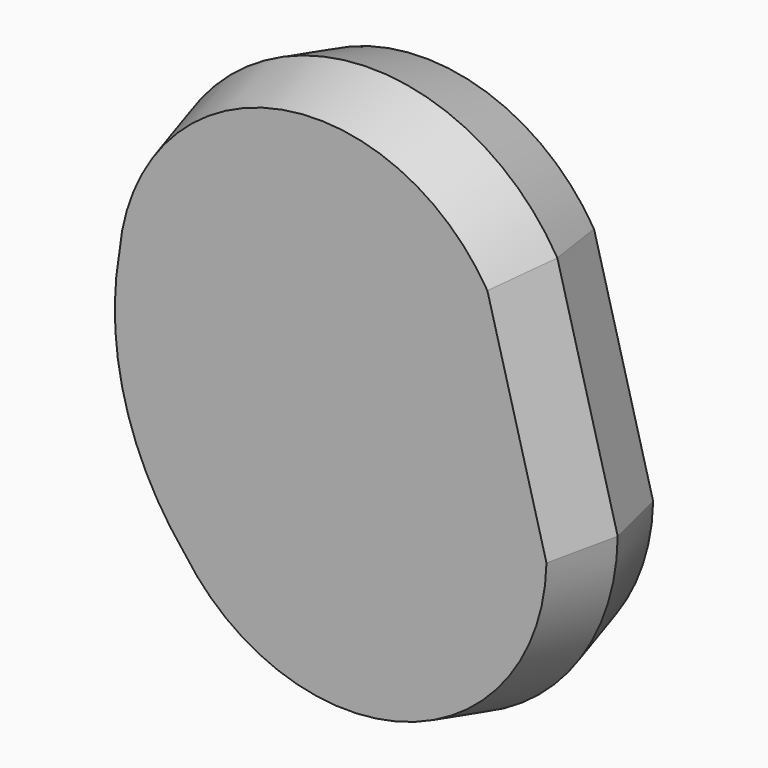
from build123d import *

# Parameters (mm, degrees)
F1_DEPTH = 4
F1_TAPER = 15


with BuildPart() as f1:
    # F0 (on Front) → F1 (new body, symmetric)
    with BuildSketch(Plane.XZ):
        with BuildLine():
            ThreePointArc((86.7407649822, -6.1106237106), (82.5, 0), (83.1172983508, 7.4123378574))
            Line((83.1172983508, 7.4123378574), (95.1771540786, 10.6437664606))
            ThreePointArc((95.1771540786, 10.6437664606), (81.1272632347, 16.7142332691), (71.0371981223, 5.2059499033))
            ThreePointArc((71.0371981223, 5.2059499033), (71.4025042649, -2.9735650202), (75.175897327, -10.2398858059))
            ThreePointArc((75.175897327, -10.2398858059), (89.6682917231, -15.1613189985), (98.8006207101, -2.8791951075))
            Line((98.8006207101, -2.8791951075), (86.7407649822, -6.1106237106))
        make_face()
        with BuildLine():
            Line((95.1771540786, 10.6437664606), (83.1172983508, 7.4123378574))
            ThreePointArc((83.1172983508, 7.4123378574), (82.5, 0), (86.7407649822, -6.1106237106))
            Line((86.7407649822, -6.1106237106), (98.8006207101, -2.8791951075))
            Line((98.8006207101, -2.8791951075), (95.1771540786, 10.6437664606))
        make_face()
    extrude(amount=F1_DEPTH, both=True, taper=F1_TAPER)


solid = f1.part
